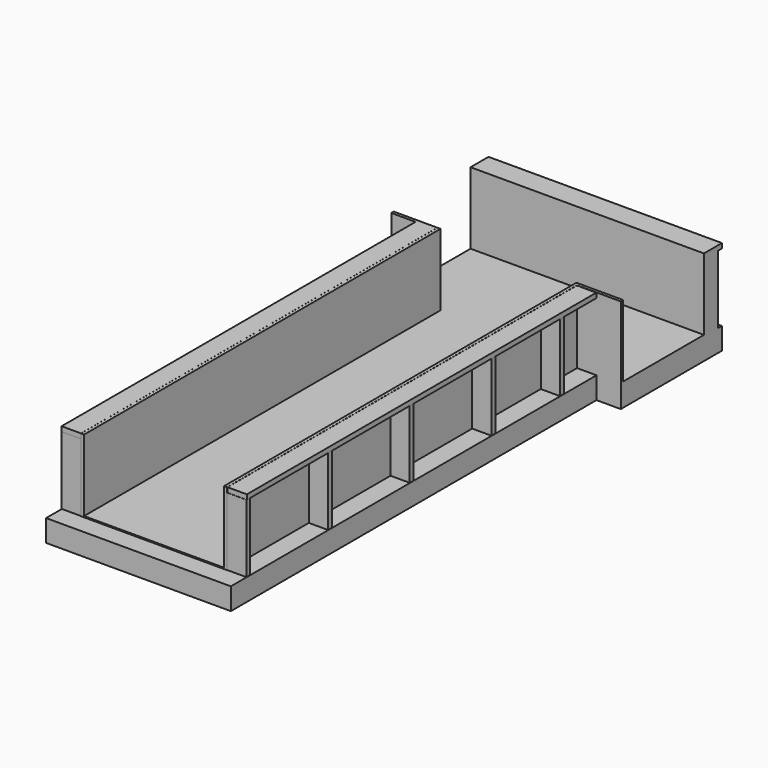
from build123d import *

# Parameters (mm, degrees)
F1_DEPTH  = 12.7
F3_DEPTH  = 749.3
F5_DEPTH  = 50.8
F6_W      = 355.6
F6_H      = 203.2
F6_W_2    = 304.8
F7_DEPTH  = 152.4
F8_W      = 2438.4
F8_H      = 50.8
F9_DEPTH  = 203.2
F10_W     = 1054.1
F10_H     = 749.3
F11_DEPTH = 31.751
F12_W     = 1003.3
F12_H     = 749.3
F13_DEPTH = 31.751
F14_W     = 1460.5
F14_H     = 749.3
F15_DEPTH = 234.951
F16_W     = 1930.4
F16_H     = 50.8
F17_DEPTH = 711.2
F18_W     = 1460.5
F18_H     = 698.5
F19_DEPTH = 4352.402444
F20_W     = 203.2
F20_H     = 4622.8
F20_H_2   = 4563.148059
F21_DEPTH = 50.8
F23_DEPTH = 177.8


with BuildPart() as f1:
    # F0 (on Top) → F1 (new body)
    with BuildSketch(Plane.XY):
        Polygon((-1257.087652, 1066.8), (-1257.087652, 0), (-799.887652, 0), (-799.887652, -4622.8), (724.112348, -4622.8), (724.112348, -50.8), (1181.312348, -50.8), (1181.312348, 1066.8), align=None)
    extrude(amount=F1_DEPTH)

    # F2 (on face) → F3 (join)
    with BuildSketch(Plane.XY.offset(12.7)):
        Polygon((1181.312348, 1066.8), (-1257.087652, 1066.8), (-1257.087652, 0), (-799.887652, 0), (-799.887652, -4622.8), (724.112348, -4622.8), (724.112348, -50.8), (1181.312348, -50.8), align=None)
        Polygon((-768.137652, -4591.05), (-768.137652, 31.75), (-1225.337652, 31.75), (-1225.337652, 1035.05), (1149.562348, 1035.05), (1149.562348, -19.05), (692.362348, -19.05), (692.362348, -4591.05), align=None, mode=Mode.SUBTRACT)
    extrude(amount=F3_DEPTH)

    # F4 (on face) → F5 (join)
    with BuildSketch(Plane.XY):
        Polygon((-1003.087652, -4826), (927.312348, -4826), (927.312348, -50.8), (1181.312348, -50.8), (1181.312348, 1270), (927.312348, 1270), (-1003.087652, 1270), (-1257.087652, 1270), (-1257.087652, 0), (-1003.087652, 0), align=None)
    extrude(amount=-F5_DEPTH)

    # F6 (on face) → F7 (join)
    with BuildSketch(Plane(origin=(0, 1066.8, 0), x_dir=(-1, 0, 0), z_dir=(0, 1, 0))):
        Polygon((-1181.312348, 203.2), (-1181.312348, 0), (-1130.512348, 0), (-1130.512348, 203.2), (-774.912348, 203.2), (-774.912348, 0), (-724.112348, 0), (-724.112348, 203.2), (-368.512348, 203.2), (-368.512348, 0), (-317.712348, 0), (-317.712348, 203.2), (37.887652, 203.2), (37.887652, 0), (88.687652, 0), (88.687652, 203.2), (444.287652, 203.2), (444.287652, 0), (495.087652, 0), (495.087652, 203.2), (850.687652, 203.2), (850.687652, 0), (901.487652, 0), (901.487652, 203.2), (1206.287652, 203.2), (1206.287652, 0), (1257.087652, 0), (1257.087652, 203.2), (1257.087652, 254), (1257.087652, 457.2), (1257.087652, 508), (1257.087652, 711.2), (1206.287652, 711.2), (1206.287652, 508), (901.487652, 508), (901.487652, 711.2), (850.687652, 711.2), (850.687652, 508), (495.087652, 508), (495.087652, 711.2), (444.287652, 711.2), (444.287652, 508), (88.687652, 508), (88.687652, 711.2), (37.887652, 711.2), (37.887652, 508), (-317.712348, 508), (-317.712348, 711.2), (-368.512348, 711.2), (-368.512348, 508), (-724.112348, 508), (-724.112348, 711.2), (-774.912348, 711.2), (-774.912348, 508), (-1130.512348, 508), (-1130.512348, 711.2), (-1181.312348, 711.2), (-1181.312348, 508), (-1181.312348, 457.2), (-1181.312348, 254), align=None)
        with Locations((-952.712348, 355.6)):
            Rectangle(F6_W, F6_H, mode=Mode.SUBTRACT)
        with Locations((-546.312348, 355.6)):
            Rectangle(F6_W, F6_H, mode=Mode.SUBTRACT)
        with Locations((-139.912348, 355.6)):
            Rectangle(F6_W, F6_H, mode=Mode.SUBTRACT)
        with Locations((266.487652, 355.6)):
            Rectangle(F6_W, F6_H, mode=Mode.SUBTRACT)
        with Locations((672.887652, 355.6)):
            Rectangle(F6_W, F6_H, mode=Mode.SUBTRACT)
        with Locations((1053.887652, 355.6)):
            Rectangle(F6_W_2, F6_H, mode=Mode.SUBTRACT)
    extrude(amount=F7_DEPTH)

    # F8 (on face) → F9 (join)
    with BuildSketch(Plane(origin=(0, 1066.8, 0), x_dir=(-1, 0, 0), z_dir=(0, 1, 0))):
        with Locations((37.887652, 736.6)):
            Rectangle(F8_W, F8_H)
    extrude(amount=F9_DEPTH)

    # F10 (on face) → F11 (cut, through all)
    with BuildSketch(Plane(origin=(1149.562348, 0, 0), x_dir=(0, -1, 0), z_dir=(-1, 0, 0))):
        with Locations((-508, 387.35)):
            Rectangle(F10_W, F10_H)
    extrude(amount=-F11_DEPTH, mode=Mode.SUBTRACT)

    # F12 (on face) → F13 (cut, through all)
    with BuildSketch(Plane.YZ.offset(-1225.337652)):
        with Locations((533.4, 387.35)):
            Rectangle(F12_W, F12_H)
    extrude(amount=-F13_DEPTH, mode=Mode.SUBTRACT)

    # F14 (on face) → F15 (cut, through all)
    with BuildSketch(Plane(origin=(0, -4591.05, 0), x_dir=(-1, 0, 0), z_dir=(0, 1, 0))):
        with Locations((37.887652, 387.35)):
            Rectangle(F14_W, F14_H)
    extrude(amount=-F15_DEPTH, mode=Mode.SUBTRACT)

    # F16 (on face) → F17 (join)
    with BuildSketch(Plane.XY):
        with Locations((-40.720533, -4594.748556)):
            Rectangle(F16_W, F16_H)
        with Locations((-40.720533, -3527.948556)):
            Rectangle(F16_W, F16_H)
        Polygon((-1005.920533, -1419.748556), (-103.030887, -1419.748556), (924.479467, -1419.748556), (924.479467, -1368.948556), (-1005.920533, -1368.948556), align=None)
        with Locations((-40.720533, -498.998556)):
            Rectangle(F16_W, F16_H)
        with Locations((-40.720533, -2461.148556)):
            Rectangle(F16_W, F16_H)
    extrude(amount=F17_DEPTH)

    # F18 (on face) → F19 (cut, through all)
    with BuildSketch(Plane(origin=(0, -473.598556, 0), x_dir=(-1, 0, 0), z_dir=(0, 1, 0))):
        with Locations((37.887652, 361.95)):
            Rectangle(F18_W, F18_H)
    extrude(amount=-F19_DEPTH, mode=Mode.SUBTRACT)

    # F20 (on face) → F21 (join, through all)
    with BuildSketch(Plane.XY.offset(711.2)):
        with Locations((-902.243337, -2310.959497)):
            Rectangle(F20_W, F20_H)
        with Locations((826.987812, -2336.676817)):
            Rectangle(F20_W, F20_H_2)
    extrude(amount=F21_DEPTH)

    # F22 (on face) → F23 (join)
    with BuildSketch(Plane(origin=(0, 0, -50.8), x_dir=(1, 0, 0), z_dir=(0, 0, -1))):
        Polygon((927.312348, 50.8), (927.312348, 4826), (-1003.087652, 4826), (-1003.087652, 0), (-1257.087652, 0), (-1257.087652, -1270), (1181.312348, -1270), (1181.312348, 50.8), align=None)
        Polygon((876.512348, 0), (1130.512348, 0), (1130.512348, -1219.2), (-1206.287652, -1219.2), (-1206.287652, -50.8), (-952.287652, -50.8), (-952.287652, 4775.2), (876.512348, 4775.2), align=None, mode=Mode.SUBTRACT)
    extrude(amount=F23_DEPTH)


solid = f1.part
